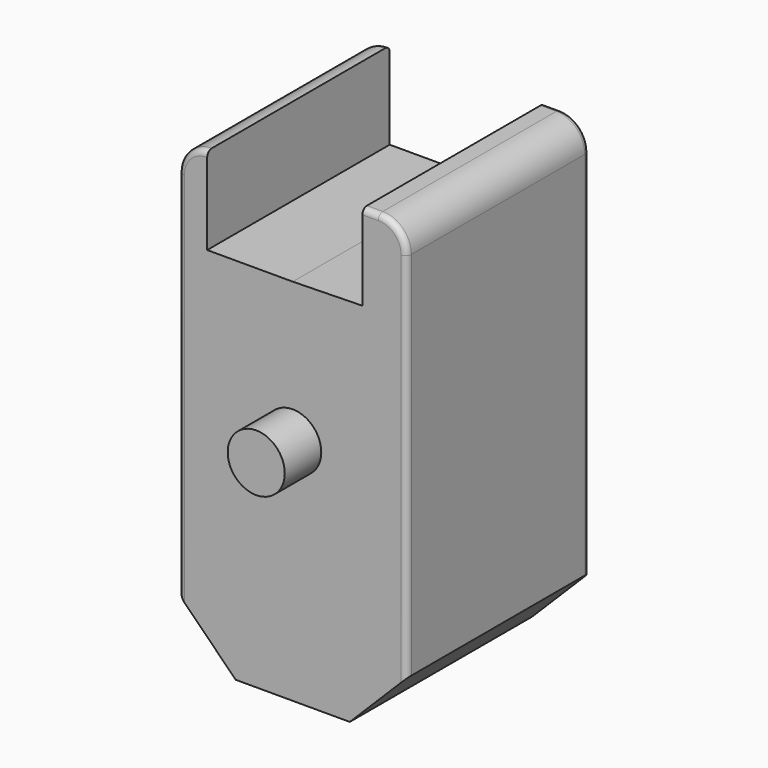
from build123d import *

# Parameters (mm, degrees)
F0_R       = 25
F1_DEPTH   = 200
F2_SIZE    = 50
F3_R       = 5
F4_R       = 25
F5_DEPTH   = 40
F1_FACE1_R = 25
F7_DEPTH   = 5025
F9_DEPTH   = 25
F10_DEPTH  = 450
F11_DEPTH  = 700
F12_DEPTH  = 25


with BuildPart() as f1:
    # F0 (on Front) → F1 (new body)
    with BuildSketch(Plane.XZ):
        with BuildLine():
            ThreePointArc((100, 175), (92.6776695297, 192.6776695297), (75, 200))
            Line((75, 200), (-75, 200))
            ThreePointArc((-75, 200), (-92.6776695297, 192.6776695297), (-100, 175))
            Line((-100, 175), (-100, -200))
            Line((-100, -200), (100, -200))
            Line((100, -200), (100, 175))
        make_face()
        Circle(F0_R, mode=Mode.SUBTRACT)
    extrude(amount=F1_DEPTH)

    # F2
    f2_edges = [f1.edges().sort_by_distance(p)[0] for p in [
        (100, -100, -200),
        (-100, -100, -200),
    ]]
    chamfer(f2_edges, length=F2_SIZE)

    # F3
    f3_edges = [f1.edges().sort_by_distance(p)[0] for p in [
        (75, -100, 200),
        (-75, -100, 200),
        (0, 0, 200),
        (0, -200, 200),
    ]]
    fillet(f3_edges, radius=F3_R)

    # F6 (on face) + F1_face1 (on face) → F7 (cut)
    with BuildSketch(Plane.XZ.offset(200)):
        Polygon((-75, 213.1325900555), (-75, 195), (-75, 123.5051602125), (0, 123.5051602125), (0, 213.1325900555), align=None)
    with BuildSketch(Plane(origin=(0, 0, 2.1764629874), x_dir=(1, 0, 0), z_dir=(0, 1, 0))):
        with BuildLine():
            Line((-50, 202.1764629874), (-95, 157.1764629874))
            Line((-95, 157.1764629874), (-95, -172.8235370126))
            ThreePointArc((-95, -172.8235370126), (-89.1421356237, -186.9656726363), (-75, -192.8235370126))
            Line((-75, -192.8235370126), (75, -192.8235370126))
            ThreePointArc((75, -192.8235370126), (89.1421356237, -186.9656726363), (95, -172.8235370126))
            Line((95, -172.8235370126), (95, 157.1764629874))
            Line((95, 157.1764629874), (50, 202.1764629874))
            Line((50, 202.1764629874), (-50, 202.1764629874))
        make_face()
        with Locations((0, 2.1764629874)):
            Circle(F1_FACE1_R, mode=Mode.SUBTRACT)
    extrude(amount=-F7_DEPTH, dir=(0, -1, 0), mode=Mode.SUBTRACT)

    # F8 (on face) → F9 (cut)
    with BuildSketch(Plane(origin=(0, 0, 0), x_dir=(-1, 0, 0), z_dir=(0, 1, 0))):
        Polygon((0, 195), (-61.0763393342, 195), (-61.0763393342, 124.79570508), (0, 123.5051602125), align=None)
    extrude(amount=-F9_DEPTH, mode=Mode.SUBTRACT)

    # F10 (add): a face of the model
    f10_faces = [f1.faces().sort_by_distance(p)[0] for p in [
        (30.4454594371, -25, 159.5742368382),
    ]]
    extrude(f10_faces, amount=F10_DEPTH)

    # F11 (cut): a face of the model
    f11_faces = [f1.faces().sort_by_distance(p)[0] for p in [
        (30.4454594371, 425, 159.5742368382),
    ]]
    extrude(f11_faces, amount=-F11_DEPTH, mode=Mode.SUBTRACT)

    # F12 (cut): a face of the model
    f12_faces = [f1.faces().sort_by_distance(p)[0] for p in [
        (30.5381696671, -100, 195),
    ]]
    extrude(f12_faces, amount=-F12_DEPTH, mode=Mode.SUBTRACT)


with BuildPart() as f5:
    # F4 (on face) → F5 (new body)
    with BuildSketch(Plane.XZ.offset(200)):
        Circle(F4_R)
    extrude(amount=F5_DEPTH)


solid = Compound([f1.part, f5.part])
